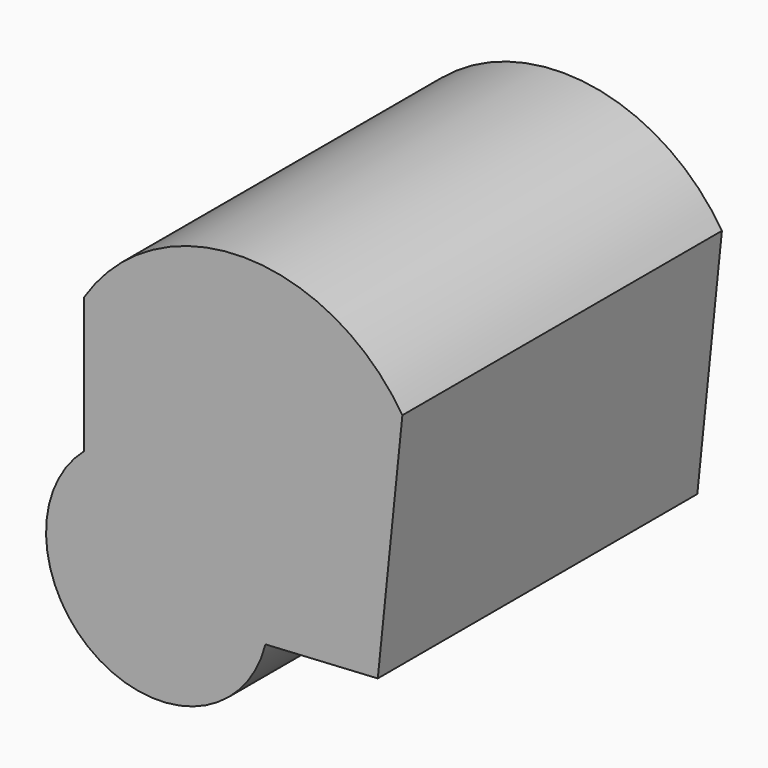
from build123d import *

# Parameters (mm, degrees)
F1_DEPTH = 112.526558


with BuildPart() as f1:
    # F0 (on Front) → F1 (new body)
    with BuildSketch(Plane.XZ):
        with BuildLine():
            Line((38.495421, -30.370116), (45.421928, 37.163377))
            ThreePointArc((45.421928, 37.163377), (0.635948, 61.819784), (-44.223107, 37.296578))
            Line((-44.223107, 37.296578), (-44.223107, -0.875685))
            ThreePointArc((-44.223107, -0.875685), (-10.598014, 4.062906), (7.804978, -24.509221))
            ThreePointArc((7.804978, -24.509221), (7.564505, -28.386732), (6.846773, -32.204817))
            Line((6.846773, -32.204817), (38.495421, -30.370116))
        make_face()
        with BuildLine():
            ThreePointArc((7.804978, -24.509221), (-10.598014, 4.062906), (-44.223107, -0.875685))
            Line((-44.223107, -0.875685), (-44.223107, -35.165384))
            Line((-44.223107, -35.165384), (6.846773, -32.204817))
            ThreePointArc((6.846773, -32.204817), (7.564505, -28.386732), (7.804978, -24.509221))
        make_face()
        with BuildLine():
            Line((-44.223107, -35.165384), (-44.223107, -0.875685))
            ThreePointArc((-44.223107, -0.875685), (-39.986448, -51.258757), (6.846773, -32.204817))
            Line((6.846773, -32.204817), (-44.223107, -35.165384))
        make_face()
    extrude(amount=F1_DEPTH)


solid = f1.part
